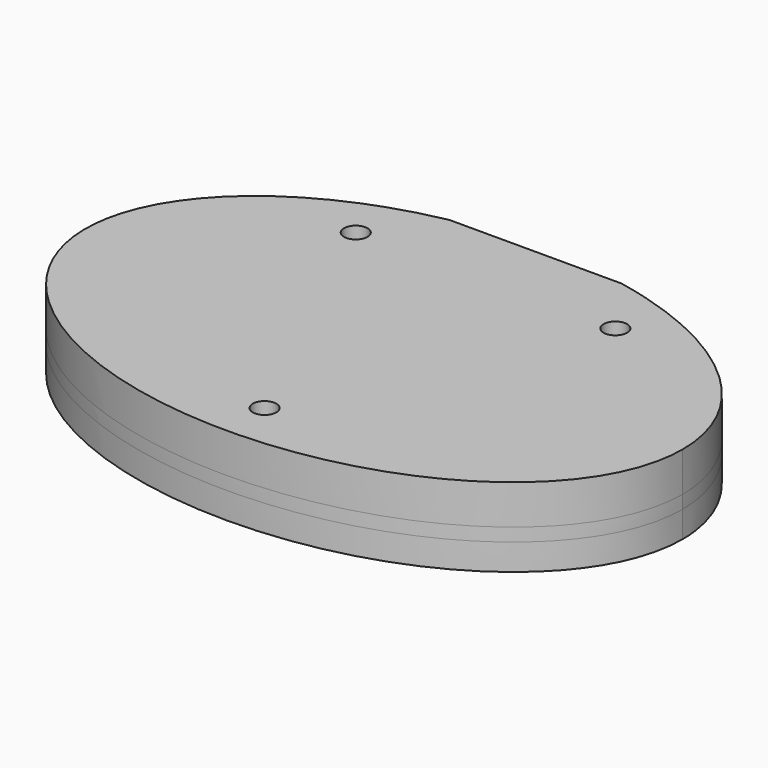
from build123d import *

# Parameters (mm, degrees)
BOX_BOTTOM_HALF_0_W     = 69.994952
BOX_BOTTOM_HALF_0_H     = 46.031044
BOX_BOTTOM_HALF_0_DEPTH = 5.5
PAD_DEPTH               = 6
POCKET_DEPTH            = 3
PAD001_DEPTH            = 3
SKETCH003_W             = 56
SKETCH003_H             = 3
POCKET001_DEPTH         = 3
SKETCH004_W             = 19.6
SKETCH004_H             = 1
POCKET002_DEPTH         = 9.001
SKETCH005_R             = 1.34
POCKET003_DEPTH         = 9.001


with BuildPart() as box_bottom_half_0_body:
    # box_bottom_half_0 → box_bottom_half_0 (new body)
    with BuildSketch(Plane(origin=(-34.994952, -23.485952, -4), x_dir=(1, 0, 0), z_dir=(0, 0, 1))):
        with Locations((34.997476, 23.015522)):
            Rectangle(BOX_BOTTOM_HALF_0_W, BOX_BOTTOM_HALF_0_H)
    extrude(amount=BOX_BOTTOM_HALF_0_DEPTH)


with BuildPart() as body:
    # Sketch → Pad (new body)
    with BuildSketch(Plane.XY):
        with BuildLine():
            add(Edge.make_bspline(
                [(34, 0), (34, 38.971143), (-17, 19.485572), (-68, 0), (-17, -19.485572), (34, -38.971143), (34, 0)],
                knots=[0, 0, 0, 2.094395, 2.094395, 4.18879, 4.18879, 6.283185, 6.283185, 6.283185], degree=2, weights=[1, 0.5, 1, 0.5, 1, 0.5, 1]))
        make_face()
    extrude(amount=PAD_DEPTH)

    # Sketch001 (on Face2 of Pad) → Pocket (cut)
    with BuildSketch(Plane(origin=(0, 0, 0), x_dir=(1, 0, 0), z_dir=(0, 0, -1))):
        Polygon((9.775, -3.450064), (9.775, -21.550064), (-9.775, -21.550064), (-9.775, -3.450064), (-28.5, -3.450064), (-28.5, 8.549936), (28.5, 8.549936), (28.5, -3.450064), align=None)
    extrude(amount=-POCKET_DEPTH, mode=Mode.SUBTRACT)

    # Sketch002 (on Face2 of Pocket) → Pad001 (join)
    with BuildSketch(Plane(origin=(0, 0, 0), x_dir=(1, 0, 0), z_dir=(0, 0, -1))):
        with BuildLine():
            add(Edge.make_bspline(
                [(34, 0), (34, 38.971143), (-17, 19.485572), (-68, 0), (-17, -19.485572), (34, -38.971143), (34, 0)],
                knots=[0, 0, 0, 2.094395, 2.094395, 4.18879, 4.18879, 6.283185, 6.283185, 6.283185], degree=2, weights=[1, 0.5, 1, 0.5, 1, 0.5, 1]))
        make_face()
    extrude(amount=PAD001_DEPTH)

    # Sketch003 (on Face4 of Pad001) → Pocket001 (cut)
    with BuildSketch(Plane(origin=(0, 0, -3), x_dir=(1, 0, 0), z_dir=(0, 0, -1))):
        with Locations((0, 2.549936)):
            Rectangle(SKETCH003_W, SKETCH003_H)
    extrude(amount=-POCKET001_DEPTH, mode=Mode.SUBTRACT)

    # Sketch004 (on Face4 of Pocket001) → Pocket002 (cut, through all)
    with BuildSketch(Plane(origin=(0, 0, -3), x_dir=(1, 0, 0), z_dir=(0, 0, -1))):
        with Locations((0, -22.045091)):
            Rectangle(SKETCH004_W, SKETCH004_H)
    extrude(amount=-POCKET002_DEPTH, mode=Mode.SUBTRACT)

    # Sketch005 (on Face7 of Pocket002) → Pocket003 (cut, through all)
    with BuildSketch(Plane(origin=(0, 0, -3), x_dir=(1, 0, 0), z_dir=(0, 0, -1))):
        with Locations((-14.775, -14.450064)):
            Circle(SKETCH005_R)
        with Locations((0, 17)):
            Circle(SKETCH005_R)
        with Locations((14.775, -14.450064)):
            Circle(SKETCH005_R)
    extrude(amount=-POCKET003_DEPTH, mode=Mode.SUBTRACT)


with BuildPart() as bottom_half_0_body:
    # bottom_half_0 base: copy of Body
    add(body.part)

    # bottom_half_0: intersect box_bottom_half_0 body
    add(box_bottom_half_0_body.part, mode=Mode.INTERSECT)


with BuildPart() as top_half_0_body:
    # top_half_0 base: copy of Body
    add(body.part)

    # top_half_0: cut box_bottom_half_0 body
    add(box_bottom_half_0_body.part, mode=Mode.SUBTRACT)


solid = Compound([bottom_half_0_body.part, top_half_0_body.part])
